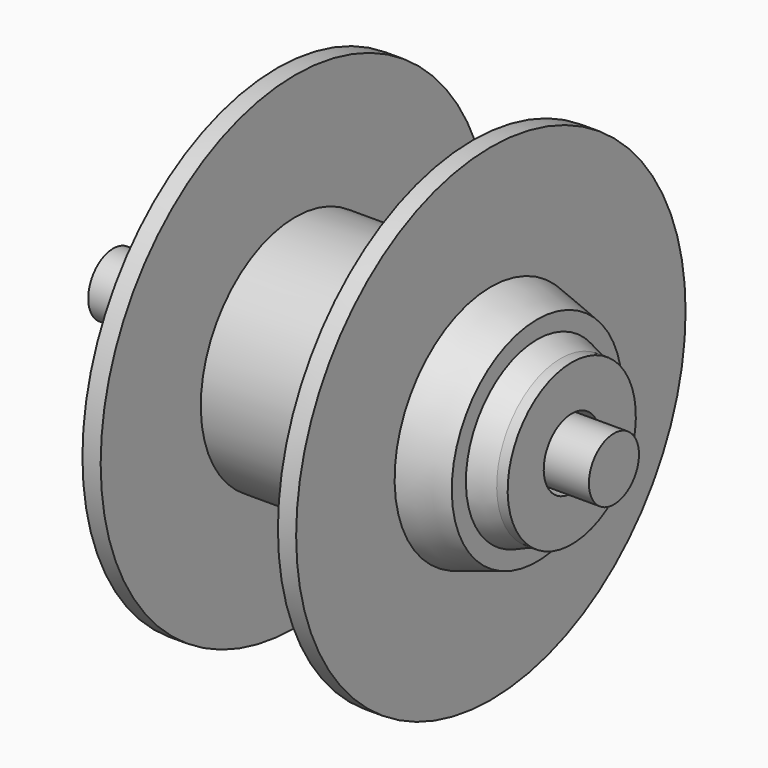
from build123d import *

# Parameters (mm, degrees)
F0_R     = 3.175
F1_DEPTH = 50.8


with BuildPart() as f1:
    # F0 (on Right) → F1 (new body)
    with BuildSketch(Plane.YZ):
        Circle(F0_R)
    extrude(amount=F1_DEPTH)


with BuildPart() as f3:
    # F2 (on Front) → F3 (revolve)
    with BuildSketch(Plane.XZ):
        Polygon((8.422256, 8.128), (8.422256, 3.556), (46.522256, 3.556), (46.522256, 8.128), (45.407027, 8.128), (43.003283, 9.028385), (43.003283, 10.818309), (38.314555, 12.207471), (38.314555, 12.836852), (38.314555, 24.695684), (36.46487, 24.695684), (36.46487, 11.995684), (18.479642, 11.995684), (18.479642, 24.695684), (16.629957, 24.695684), (16.629957, 19.542553), (16.629957, 12.207471), (11.941229, 10.818309), (11.941229, 9.028385), (9.537485, 8.128), align=None)
    revolve(axis=Axis((27.472256, 0, 0), (1, 0, 0)))


solid = Compound([f1.part, f3.part])
